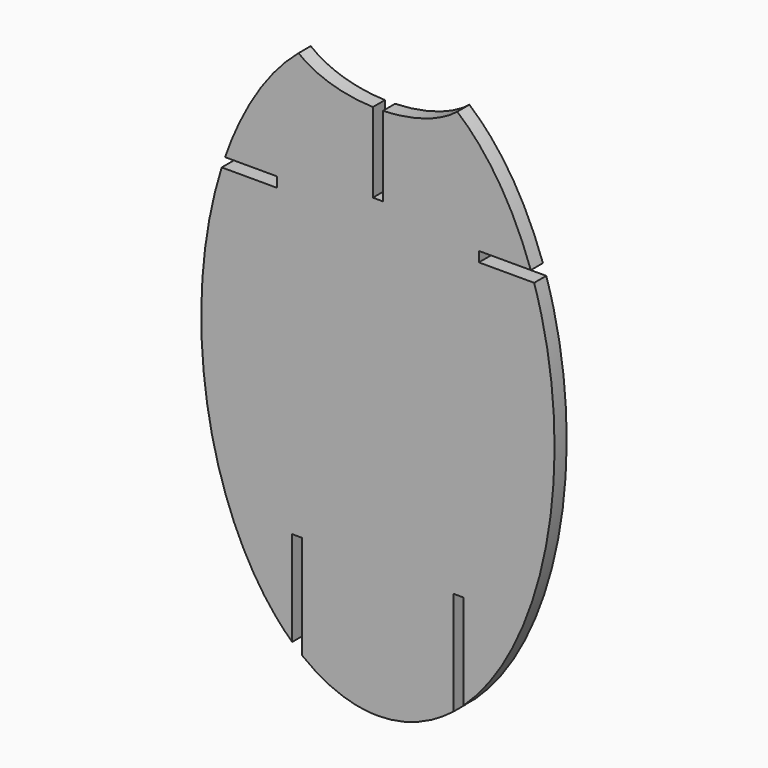
from build123d import *

# Parameters (mm, degrees)
F1_DEPTH = 3
F2_W     = 29.469342
F2_H     = 2
F3_DEPTH = 25
F5_DEPTH = 10
F7_DEPTH = 25
F8_W     = 1
F8_H     = 25
F9_DEPTH = 25


with BuildPart() as f1:
    # F0 (on Front) → F1 (new body)
    with BuildSketch(Plane.XZ):
        with BuildLine():
            add(Edge.make_bspline(
                [(0, -58.346872), (60.621778, -58.346872), (30.310889, 29.173436), (0, 116.693744), (-30.310889, 29.173436), (-60.621778, -58.346872), (0, -58.346872)],
                knots=[0, 0, 0, 2.094395, 2.094395, 4.18879, 4.18879, 6.283185, 6.283185, 6.283185], degree=2, weights=[1, 0.5, 1, 0.5, 1, 0.5, 1]))
        make_face()
    extrude(amount=F1_DEPTH)

    # F2 (on Front) → F3 (cut)
    with BuildSketch(Plane.XZ):
        with Locations((-34.734671, 28.240567)):
            Rectangle(F2_W, F2_H)
        with Locations((34.734671, 28.240567)):
            Rectangle(F2_W, F2_H)
    extrude(amount=F3_DEPTH, mode=Mode.SUBTRACT)

    # F4 (on Front) → F5 (cut)
    with BuildSketch(Plane.XZ):
        Polygon((-15, -32.18965), (-17, -32.18965), (-17, -51.198471), (-17, -64.541914), (-15, -64.62919), (-15, -53.12467), align=None)
        Polygon((17, -51.198471), (17, -32.18965), (15, -32.18965), (15, -53.12467), (15, -64.62919), (17, -64.62919), align=None)
    extrude(amount=F5_DEPTH, mode=Mode.SUBTRACT)

    # F6 (on Front) → F7 (cut)
    with BuildSketch(Plane.XZ):
        with BuildLine():
            add(Edge.make_bspline(
                [(19.068396, 58.195755), (19.068396, 76.728505), (-9.534198, 67.46213), (-38.136791, 58.195755), (-9.534198, 48.92938), (19.068396, 39.663005), (19.068396, 58.195755)],
                knots=[0, 0, 0, 2.094395, 2.094395, 4.18879, 4.18879, 6.283185, 6.283185, 6.283185], degree=2, weights=[1, 0.5, 1, 0.5, 1, 0.5, 1]))
        make_face()
    extrude(amount=F7_DEPTH, mode=Mode.SUBTRACT)

    # F8 (on Front) → F9 (cut)
    with BuildSketch(Plane.XZ):
        with Locations((-0.5, 44.198115)):
            Rectangle(F8_W, F8_H)
        with Locations((0.5, 44.198115)):
            Rectangle(F8_W, F8_H)
    extrude(amount=F9_DEPTH, mode=Mode.SUBTRACT)


solid = f1.part
